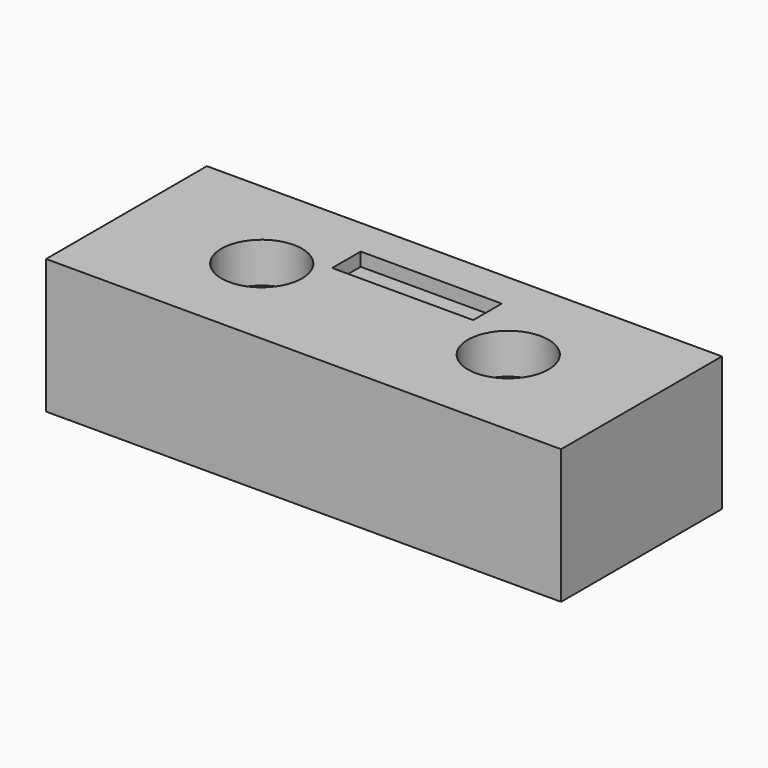
from build123d import *

# Parameters (mm, degrees)
SKETCH001_W     = 38.319672
SKETCH001_H     = 14.959016
PAD_DEPTH       = 10
SKETCH_R        = 1.5
SKETCH_R_2      = 1.25
POCKET_DEPTH    = 10.001
SKETCH002_W     = 10.495989
SKETCH002_H     = 2.652832
POCKET001_DEPTH = 1
SKETCH003_R     = 3
POCKET002_DEPTH = 3


with BuildPart() as part:
    # Sketch001 → Pad (new body)
    with BuildSketch(Plane.XY):
        with Locations((9.016384, 0.102488)):
            Rectangle(SKETCH001_W, SKETCH001_H)
    extrude(amount=PAD_DEPTH)

    # Sketch → Pocket (cut, through all)
    with BuildSketch(Plane.XY):
        Circle(SKETCH_R)
        with Locations((18.341707, 0)):
            Circle(SKETCH_R_2)
    extrude(amount=POCKET_DEPTH, mode=Mode.SUBTRACT)

    # Sketch002 (on Face5 of Pocket) → Pocket001 (cut)
    with BuildSketch(Plane.XY.offset(10)):
        with Locations((8.792832, 3.447047)):
            Rectangle(SKETCH002_W, SKETCH002_H)
    extrude(amount=-POCKET001_DEPTH, mode=Mode.SUBTRACT)

    # Sketch003 (on Face5 of Pocket001) → Pocket002 (cut)
    with BuildSketch(Plane.XY.offset(10)):
        Circle(SKETCH003_R)
        with Locations((18.341707, 0)):
            Circle(SKETCH003_R)
    extrude(amount=-POCKET002_DEPTH, mode=Mode.SUBTRACT)


solid = part.part
